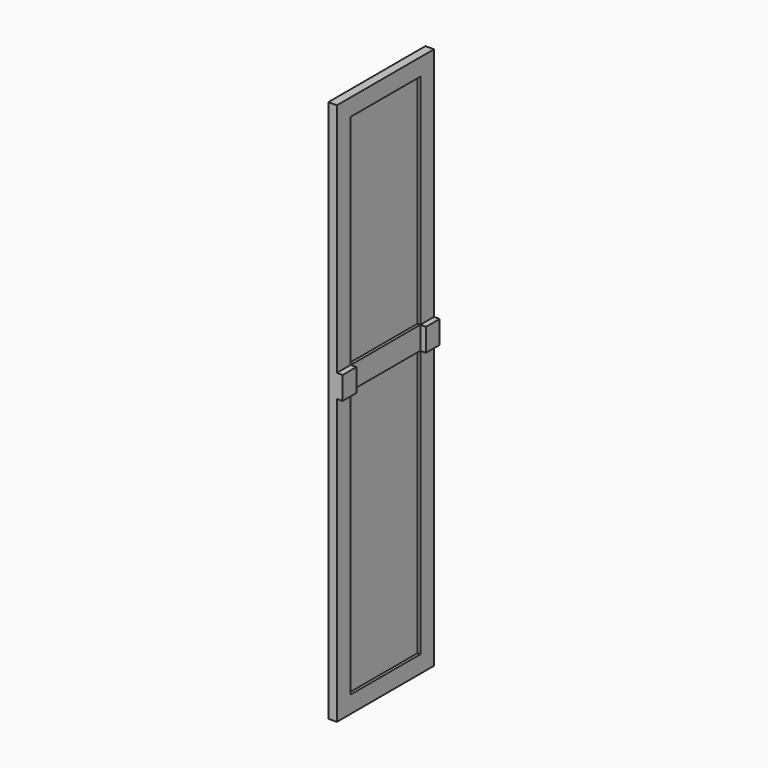
from build123d import *

# Parameters (mm, degrees)
F0_W     = 425
F0_H     = 1900
F1_DEPTH = 30
F2_W     = 305
F2_H     = 764.579544
F2_H_2   = 935.420456
F3_DEPTH = 10
F4_W     = 305
F4_H     = 764.579544
F4_H_2   = 935.420456
F5_DEPTH = 10
F6_W     = 60
F6_H     = 80
F7_DEPTH = 50


with BuildPart() as f1:
    # F0 (on Right) → F1 (new body)
    with BuildSketch(Plane.YZ):
        with Locations((212.5, 950)):
            Rectangle(F0_W, F0_H)
    extrude(amount=F1_DEPTH)

    # F2 (on face) → F3 (cut)
    with BuildSketch(Plane.YZ.offset(30)):
        with Locations((212.5, 1457.710228)):
            Rectangle(F2_W, F2_H)
        with Locations((212.5, 527.710228)):
            Rectangle(F2_W, F2_H_2)
    extrude(amount=-F3_DEPTH, mode=Mode.SUBTRACT)

    # F4 (on face) → F5 (cut)
    with BuildSketch(Plane(origin=(0, 0, 0), x_dir=(0, -1, 0), z_dir=(-1, 0, 0))):
        with Locations((-212.5, 1457.710228)):
            Rectangle(F4_W, F4_H)
        with Locations((-212.5, 527.710228)):
            Rectangle(F4_W, F4_H_2)
    extrude(amount=-F5_DEPTH, mode=Mode.SUBTRACT)

    # F6 (on face) → F7 (join)
    with BuildSketch(Plane(origin=(0, 0, 0), x_dir=(0, -1, 0), z_dir=(-1, 0, 0))):
        with Locations((-395, 1035.420456)):
            Rectangle(F6_W, F6_H)
        with Locations((-30, 1035.420456)):
            Rectangle(F6_W, F6_H)
    extrude(amount=-F7_DEPTH)


solid = f1.part
